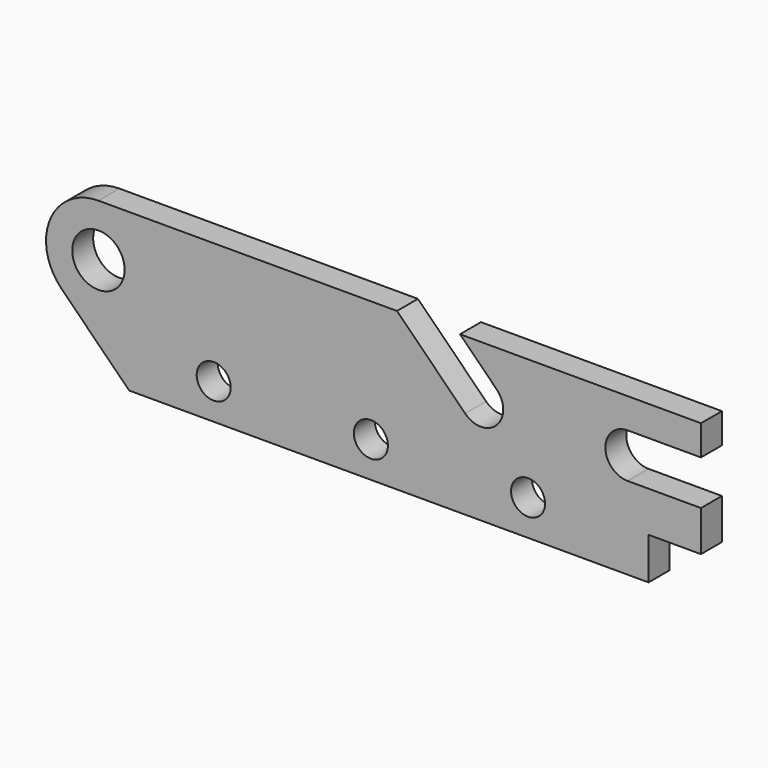
from build123d import *

# Parameters (mm, degrees)
F0_R     = 3.25
F0_R_2   = 5
F1_DEPTH = 5


with BuildPart() as f1:
    # F0 (on Front) → F1 (new body)
    with BuildSketch(Plane.XZ):
        with BuildLine():
            Line((-6.190103, 23.645651), (-63.179695, 23.645651))
            ThreePointArc((-63.179695, 23.645651), (-72.418491, 17.472486), (-70.250763, 6.574584))
            Line((-70.250763, 6.574584), (-57.321831, -6.354349))
            Line((-57.321831, -6.354349), (41.820305, -6.354349))
            Line((41.820305, -6.354349), (41.820305, 1.645651))
            Line((41.820305, 1.645651), (51.820305, 1.645651))
            Line((51.820305, 1.645651), (51.820305, 9.395651))
            Line((51.820305, 9.395651), (37.820305, 9.395651))
            ThreePointArc((37.820305, 9.395651), (33.570305, 13.645651), (37.820305, 17.895651))
            Line((37.820305, 17.895651), (51.820305, 17.895651))
            Line((51.820305, 17.895651), (51.820305, 23.645651))
            Line((51.820305, 23.645651), (16.653307, 23.645651))
            Line((16.653307, 23.645651), (16.080297, 23.645651))
            Line((16.080297, 23.645651), (5.830712, 23.645651))
            Line((5.830712, 23.645651), (12.825509, 16.650855))
            ThreePointArc((12.825509, 16.650855), (12.825509, 10.640448), (6.815101, 10.640448))
            Line((6.815101, 10.640448), (-6.190103, 23.645651))
        make_face()
        with Locations((-41.179695, 0.445651)):
            Circle(F0_R, mode=Mode.SUBTRACT)
        with Locations((-11.179695, 0.445651)):
            Circle(F0_R, mode=Mode.SUBTRACT)
        with Locations((18.820305, 0.445651)):
            Circle(F0_R, mode=Mode.SUBTRACT)
        with Locations((-63.179695, 13.645651)):
            Circle(F0_R_2, mode=Mode.SUBTRACT)
    extrude(amount=F1_DEPTH)


solid = f1.part
